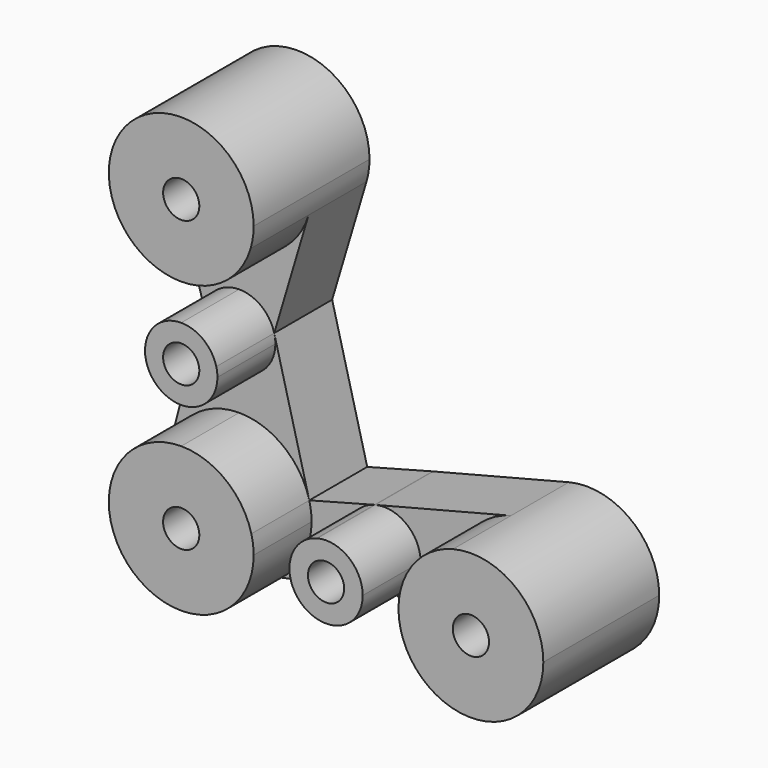
from build123d import *

# Parameters (mm, degrees)
F1_DEPTH = 50.8
F2_DEPTH = 25.4
F3_D     = 12.7
F3_2_D   = 12.7
F3_3_D   = 12.7
F3_4_D   = 12.7
F3_5_D   = 12.7


with BuildPart() as f1:
    # F0 (on Front) → F1 (new body)
    with BuildSketch(Plane.XZ):
        with BuildLine():
            ThreePointArc((-81.4850498225, 4.5437239793), (-66.3077558729, 9.5768452697), (-57.1453565147, 22.6815390684))
            ThreePointArc((-57.1453565147, 22.6815390684), (-56.3515243036, 26.2741334039), (-56.0850498225, 29.9437239793))
            ThreePointArc((-56.0850498225, 29.9437239793), (-85.1546403978, 55.0772494982), (-105.8247431304, 22.6815390684))
            ThreePointArc((-105.8247431304, 22.6815390684), (-96.6623437721, 9.5768452697), (-81.4850498225, 4.5437239793))
        make_face()
    extrude(amount=F1_DEPTH)

    # F3 (through all)
    with Locations(Plane(origin=(0, 0, 0), x_dir=(1, 0, 0), z_dir=(0, 1, 0))):
        with Locations((-81.4850498225, -29.9437239793), (-81.4850498225, 20.8562760207), (-81.4850498225, 71.6562741589), (-30.6850498225, 71.6562741589), (20.1149483157, 71.6562741589)):
            Hole(F3_D / 2)


with BuildPart() as f1b:
    # F0 (on Front) → F1, piece 2 (new body)
    with BuildSketch(Plane.XZ):
        with BuildLine():
            Line((-56.0850498225, -71.6562741589), (-81.4850498225, -71.6562741589))
            Line((-81.4850498225, -71.6562741589), (-81.4850498225, -46.2562741589))
            ThreePointArc((-81.4850498225, -46.2562741589), (-97.0393095942, -51.5758109432), (-106.0784940108, -65.3062739262))
            ThreePointArc((-106.0784940108, -65.3062739262), (-95.9194886513, -92.5562018071), (-66.8378468362, -92.4076462744))
            ThreePointArc((-66.8378468362, -92.4076462744), (-58.9328996384, -83.3421854231), (-56.0850498225, -71.6562741589))
        make_face()
        with BuildLine():
            Line((-81.4850498225, -46.2562741589), (-81.4850498225, -71.6562741589))
            Line((-81.4850498225, -71.6562741589), (-56.0850498225, -71.6562741589))
            ThreePointArc((-56.0850498225, -71.6562741589), (-56.2874955525, -68.4557650106), (-56.8916056342, -65.3062739262))
            ThreePointArc((-56.8916056342, -65.3062739262), (-65.9307900508, -51.5758109432), (-81.4850498225, -46.2562741589))
        make_face()
    extrude(amount=F1_DEPTH)

    # F3#2 (through all)
    with Locations(Plane(origin=(0, 0, 0), x_dir=(1, 0, 0), z_dir=(0, 1, 0))):
        with Locations((-81.4850498225, -29.9437239793), (-81.4850498225, 20.8562760207), (-81.4850498225, 71.6562741589), (-30.6850498225, 71.6562741589), (20.1149483157, 71.6562741589)):
            Hole(F3_2_D / 2)


with BuildPart() as f1c:
    # F0 (on Front) → F1, piece 3 (new body)
    with BuildSketch(Plane.XZ):
        with BuildLine():
            ThreePointArc((-5.2850516843, -71.6562741589), (-0.1784275618, -86.9317085389), (13.0880896934, -96.0649459356))
            ThreePointArc((13.0880896934, -96.0649459356), (35.3903826957, -91.9496500363), (45.5149483157, -71.6562741589))
            ThreePointArc((45.5149483157, -71.6562741589), (35.6989606694, -51.5988925013), (13.8378964291, -47.044110101))
            ThreePointArc((13.8378964291, -47.044110101), (0.057566658, -56.0722618052), (-5.2850516843, -71.6562741589))
        make_face()
    extrude(amount=F1_DEPTH)

    # F3#3 (through all)
    with Locations(Plane(origin=(0, 0, 0), x_dir=(1, 0, 0), z_dir=(0, 1, 0))):
        with Locations((-81.4850498225, -29.9437239793), (-81.4850498225, 20.8562760207), (-81.4850498225, 71.6562741589), (-30.6850498225, 71.6562741589), (20.1149483157, 71.6562741589)):
            Hole(F3_3_D / 2)


with BuildPart() as f1d:
    # F0 (on Front) → F1, piece 4 (new body)
    with BuildSketch(Plane.XZ):
        with BuildLine():
            ThreePointArc((-93.7817719167, -17.6812759044), (-91.5252814303, -28.6334059066), (-81.4850498225, -33.5562760207))
            Line((-81.4850498225, -33.5562760207), (-81.4850498225, -20.8562760207))
            Line((-81.4850498225, -20.8562760207), (-81.4850498225, -8.1562760207))
            ThreePointArc((-81.4850498225, -8.1562760207), (-89.2621797083, -10.8160444129), (-93.7817719167, -17.6812759044))
        make_face()
        with BuildLine():
            Line((-81.4850498225, -20.8562760207), (-81.4850498225, -33.5562760207))
            ThreePointArc((-81.4850498225, -33.5562760207), (-72.5047937014, -29.8365321418), (-68.7850498225, -20.8562760207))
            ThreePointArc((-68.7850498225, -20.8562760207), (-68.8862726875, -19.2560214466), (-69.1883277283, -17.6812759044))
            ThreePointArc((-69.1883277283, -17.6812759044), (-73.7079199367, -10.8160444129), (-81.4850498225, -8.1562760207))
            Line((-81.4850498225, -8.1562760207), (-81.4850498225, -20.8562760207))
        make_face()
    extrude(amount=F1_DEPTH)

    # F3#4 (through all)
    with Locations(Plane(origin=(0, 0, 0), x_dir=(1, 0, 0), z_dir=(0, 1, 0))):
        with Locations((-81.4850498225, -29.9437239793), (-81.4850498225, 20.8562760207), (-81.4850498225, 71.6562741589), (-30.6850498225, 71.6562741589), (20.1149483157, 71.6562741589)):
            Hole(F3_4_D / 2)


with BuildPart() as f1e:
    # F0 (on Front) → F1, piece 5 (new body)
    with BuildSketch(Plane.XZ):
        with BuildLine():
            ThreePointArc((-33.9732944715, -59.2378093359), (-40.865252019, -63.8208223741), (-43.5314820678, -71.6562741589))
            Line((-43.5314820678, -71.6562741589), (-30.6850498225, -71.6562741589))
            Line((-30.6850498225, -71.6562741589), (-17.8386175772, -71.6562741589))
            ThreePointArc((-17.8386175772, -71.6562741589), (-22.7569683581, -61.5480425763), (-33.7459673809, -59.1798321527))
            Line((-33.7459673809, -59.1798321527), (-33.9732944715, -59.2378093359))
        make_face()
        with BuildLine():
            Line((-30.6850498225, -71.6562741589), (-43.5314820678, -71.6562741589))
            ThreePointArc((-43.5314820678, -71.6562741589), (-38.7777633216, -81.6331879931), (-28.0347577237, -84.2263486704))
            ThreePointArc((-28.0347577237, -84.2263486704), (-20.7081359883, -79.748987658), (-17.8386175772, -71.6562741589))
            Line((-17.8386175772, -71.6562741589), (-30.6850498225, -71.6562741589))
        make_face()
    extrude(amount=F1_DEPTH)

    # F3#5 (through all)
    with Locations(Plane(origin=(0, 0, 0), x_dir=(1, 0, 0), z_dir=(0, 1, 0))):
        with Locations((-81.4850498225, -29.9437239793), (-81.4850498225, 20.8562760207), (-81.4850498225, 71.6562741589), (-30.6850498225, 71.6562741589), (20.1149483157, 71.6562741589)):
            Hole(F3_5_D / 2)


with BuildPart() as f2:
    # F0 (on Front) → F2 (new body)
    with BuildSketch(Plane.XZ):
        with BuildLine():
            Line((-105.8247431304, 22.6815390684), (-93.7817719167, -17.6812759044))
            ThreePointArc((-93.7817719167, -17.6812759044), (-89.2621797083, -10.8160444129), (-81.4850498225, -8.1562760207))
            Line((-81.4850498225, -8.1562760207), (-81.4850498225, 4.5437239793))
            ThreePointArc((-81.4850498225, 4.5437239793), (-96.6623437721, 9.5768452697), (-105.8247431304, 22.6815390684))
        make_face()
        with BuildLine():
            ThreePointArc((-81.4850498225, -8.1562760207), (-73.7079199367, -10.8160444129), (-69.1883277283, -17.6812759044))
            Line((-69.1883277283, -17.6812759044), (-57.1453565147, 22.6815390684))
            ThreePointArc((-57.1453565147, 22.6815390684), (-66.3077558729, 9.5768452697), (-81.4850498225, 4.5437239793))
            Line((-81.4850498225, 4.5437239793), (-81.4850498225, -8.1562760207))
        make_face()
    extrude(amount=F2_DEPTH)


with BuildPart() as f2b:
    # F0 (on Front) → F2, piece 2 (new body)
    with BuildSketch(Plane.XZ):
        with BuildLine():
            ThreePointArc((-106.0784940108, -65.3062739262), (-97.0393095942, -51.5758109432), (-81.4850498225, -46.2562741589))
            Line((-81.4850498225, -46.2562741589), (-81.4850498225, -33.5562760207))
            ThreePointArc((-81.4850498225, -33.5562760207), (-91.5252814303, -28.6334059066), (-93.7817719167, -17.6812759044))
            Line((-93.7817719167, -17.6812759044), (-106.0784940108, -65.3062739262))
        make_face()
        with BuildLine():
            Line((-81.4850498225, -33.5562760207), (-81.4850498225, -46.2562741589))
            ThreePointArc((-81.4850498225, -46.2562741589), (-65.9307900508, -51.5758109432), (-56.8916056342, -65.3062739262))
            Line((-56.8916056342, -65.3062739262), (-69.1883277283, -17.6812759044))
            ThreePointArc((-69.1883277283, -17.6812759044), (-68.8862726875, -19.2560214466), (-68.7850498225, -20.8562760207))
            ThreePointArc((-68.7850498225, -20.8562760207), (-72.5047937014, -29.8365321418), (-81.4850498225, -33.5562760207))
        make_face()
    extrude(amount=F2_DEPTH)


with BuildPart() as f2c:
    # F0 (on Front) → F2, piece 3 (new body)
    with BuildSketch(Plane.XZ):
        with BuildLine():
            ThreePointArc((-56.8916056342, -65.3062739262), (-56.2874955525, -68.4557650106), (-56.0850498225, -71.6562741589))
            Line((-56.0850498225, -71.6562741589), (-43.5314820678, -71.6562741589))
            ThreePointArc((-43.5314820678, -71.6562741589), (-40.865252019, -63.8208223741), (-33.9732944715, -59.2378093359))
            Line((-33.9732944715, -59.2378093359), (-56.8916056342, -65.3062739262))
        make_face()
        with BuildLine():
            Line((-43.5314820678, -71.6562741589), (-56.0850498225, -71.6562741589))
            ThreePointArc((-56.0850498225, -71.6562741589), (-58.9328996384, -83.3421854231), (-66.8378468362, -92.4076462744))
            Line((-66.8378468362, -92.4076462744), (-28.0347577237, -84.2263486704))
            ThreePointArc((-28.0347577237, -84.2263486704), (-38.7777633216, -81.6331879931), (-43.5314820678, -71.6562741589))
        make_face()
    extrude(amount=F2_DEPTH)


with BuildPart() as f2d:
    # F0 (on Front) → F2, piece 4 (new body)
    with BuildSketch(Plane.XZ):
        with BuildLine():
            ThreePointArc((-33.7459673809, -59.1798321527), (-22.7569683581, -61.5480425763), (-17.8386175772, -71.6562741589))
            Line((-17.8386175772, -71.6562741589), (-5.2850516843, -71.6562741589))
            ThreePointArc((-5.2850516843, -71.6562741589), (0.057566658, -56.0722618052), (13.8378964291, -47.044110101))
            Line((13.8378964291, -47.044110101), (-33.7459673809, -59.1798321527))
        make_face()
        with BuildLine():
            ThreePointArc((-17.8386175772, -71.6562741589), (-20.7081359883, -79.748987658), (-28.0347577237, -84.2263486704))
            Line((-28.0347577237, -84.2263486704), (13.0880896934, -96.0649459356))
            ThreePointArc((13.0880896934, -96.0649459356), (-0.1784275618, -86.9317085389), (-5.2850516843, -71.6562741589))
            Line((-5.2850516843, -71.6562741589), (-17.8386175772, -71.6562741589))
        make_face()
    extrude(amount=F2_DEPTH)


solid = Compound([f1.part, f1b.part, f1c.part, f1d.part, f1e.part, f2.part, f2b.part, f2c.part, f2d.part])
